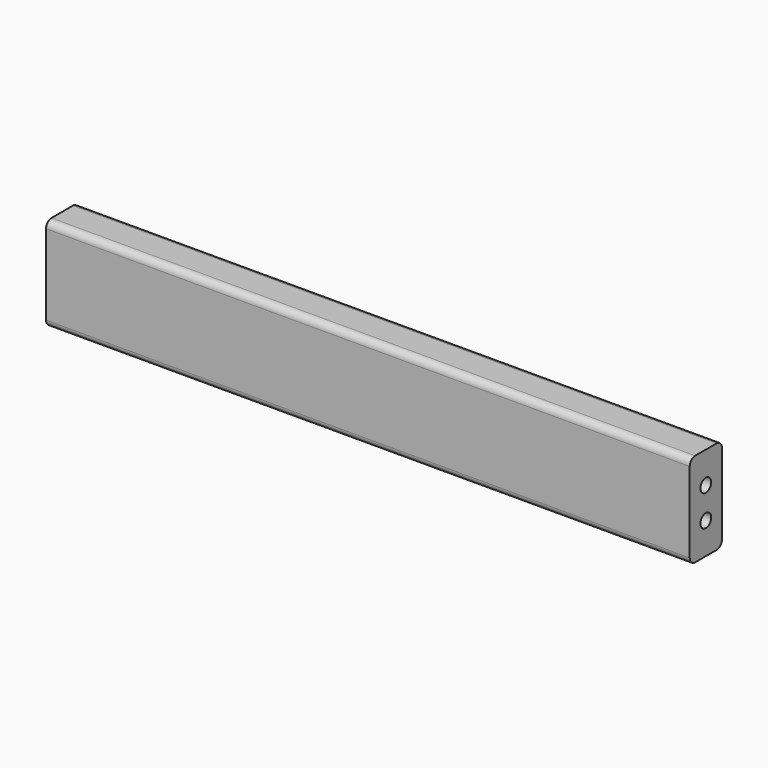
from build123d import *

# Parameters (mm, degrees)
F0_W     = 609.6
F0_H     = 88.9
F1_DEPTH = 38.1
F2_R     = 6.35
F5_DEPTH = 76.2
F3_R     = 6.35
F4_DEPTH = 76.2
F6_R     = 6.35


with BuildPart() as f1:
    # F0 (on Front) → F1 (new body)
    with BuildSketch(Plane.XZ):
        with Locations((0, -23.109551)):
            Rectangle(F0_W, F0_H)
    extrude(amount=-F1_DEPTH)

    # F2 (on face) → F5 (cut)
    with BuildSketch(Plane(origin=(-304.8, 0, 0), x_dir=(0, -1, 0), z_dir=(-1, 0, 0))):
        with Locations((-19.05, -8.377551)):
            Circle(F2_R)
        with Locations((-19.05, -37.841551)):
            Circle(F2_R)
    extrude(amount=-F5_DEPTH, mode=Mode.SUBTRACT)

    # F3 (on face) → F4 (cut)
    with BuildSketch(Plane.YZ.offset(304.8)):
        with Locations((19.05, -8.377551)):
            Circle(F3_R)
        with Locations((19.05, -37.841551)):
            Circle(F3_R)
    extrude(amount=-F4_DEPTH, mode=Mode.SUBTRACT)

    # F6
    f6_edges = [f1.edges().sort_by_distance(p)[0] for p in [
        (0, 0, 21.340449),
        (0, 38.1, 21.340449),
        (0, 38.1, -67.559551),
        (0, 0, -67.559551),
    ]]
    fillet(f6_edges, radius=F6_R)


solid = f1.part
